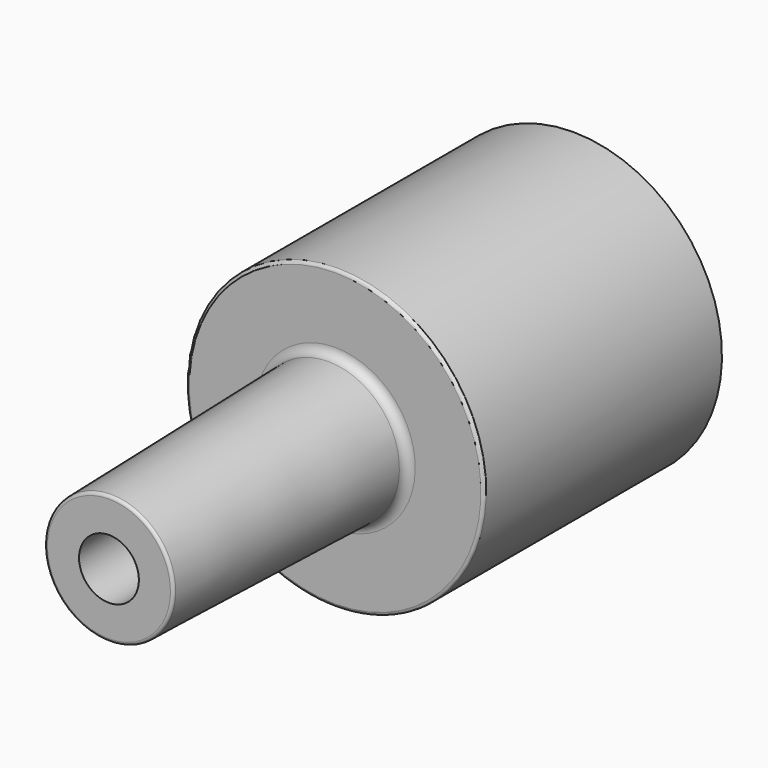
from build123d import *

# Parameters (mm, degrees)
F3_D     = 5.1054
F3_DEPTH = 22.225
F3_TIP   = 1.5338169022
F4_R     = 0.762
F5_R     = 0.254


with BuildPart() as f1:
    # F0 (on Right) → F1 (revolve)
    with BuildSketch(Plane.YZ):
        Polygon((-24.13, 0), (25.4, 0), (25.4, 12.7), (0, 12.7), (0, 6.096), (-24.13, 5.4941811878), align=None)
    revolve(axis=Axis((0, 0.635, 0), (0, 1, 0)))

    # F3
    with Locations(Plane.XZ.offset(24.13)):
        with Locations((0, 0)):
            Hole(F3_D / 2, depth=F3_DEPTH)
            with Locations((0, 0, -(F3_DEPTH + F3_TIP / 2))):  # 118° drill point
                Cone(0, F3_D / 2, F3_TIP, mode=Mode.SUBTRACT)

    # F4
    f4_edges = [f1.edges().sort_by_distance(p)[0] for p in [
        (0, 0, -6.096),
    ]]
    fillet(f4_edges, radius=F4_R)

    # F5
    f5_edges = [f1.edges().sort_by_distance(p)[0] for p in [
        (0, 0, -12.7),
        (0, -24.13, -5.494181),
    ]]
    fillet(f5_edges, radius=F5_R)

    # F6 (on Right) → F7 (revolve, cut)
    with BuildSketch(Plane.YZ):
        Polygon((3.175, 0), (25.4, 0), (25.4, 8.7376), (3.175, 7.961485898), align=None)
    revolve(axis=Axis((0, 14.2875, 0), (0, -1, 0)), mode=Mode.SUBTRACT)


solid = f1.part
